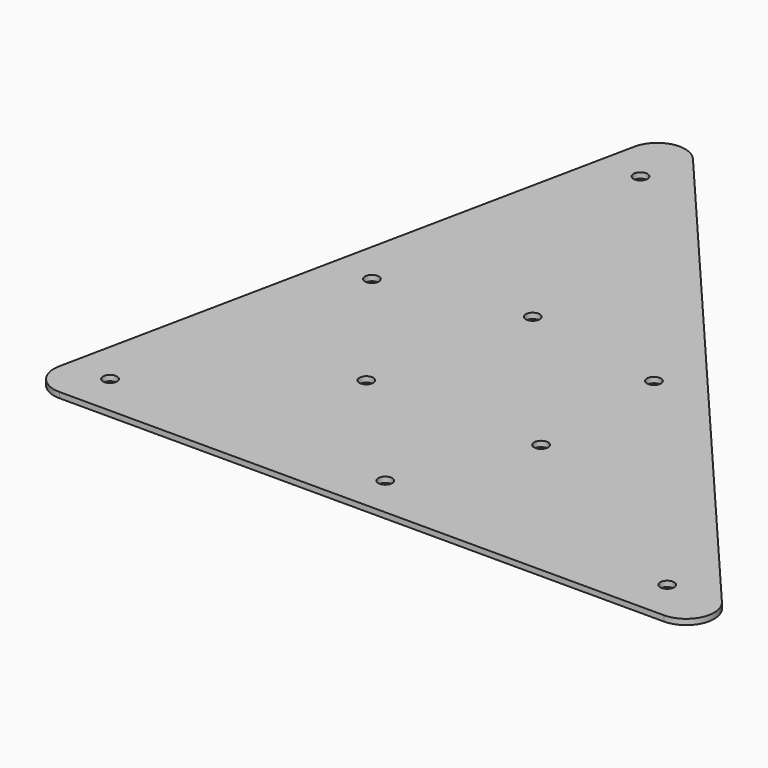
from build123d import *

# Parameters (mm, degrees)
F0_R     = 3.175
F1_DEPTH = 2.54
F2_R     = 12.7


with BuildPart() as f1:
    # F0 (on Top) → F1 (new body)
    with BuildSketch(Plane.XY):
        Polygon((-318.52108, 0), (0, 0), (-255.939342, 300.836124), align=None)
        with Locations((-295.100357, 19.05)):
            Circle(F0_R, mode=Mode.SUBTRACT)
        with Locations((-169.663504, 19.05)):
            Circle(F0_R, mode=Mode.SUBTRACT)
        with Locations((-270.480821, 137.398359)):
            Circle(F0_R, mode=Mode.SUBTRACT)
        with Locations((-223.245375, 75.209031)):
            Circle(F0_R, mode=Mode.SUBTRACT)
        with Locations((-41.218348, 19.05)):
            Circle(F0_R, mode=Mode.SUBTRACT)
        with Locations((-143.615105, 75.209031)):
            Circle(F0_R, mode=Mode.SUBTRACT)
        with Locations((-143.024825, 138.71533)):
            Circle(F0_R, mode=Mode.SUBTRACT)
        with Locations((-207.599941, 150.418062)):
            Circle(F0_R, mode=Mode.SUBTRACT)
        with Locations((-245.218643, 258.835949)):
            Circle(F0_R, mode=Mode.SUBTRACT)
    extrude(amount=F1_DEPTH)

    # F2
    f2_edges = [f1.edges().sort_by_distance(p)[0] for p in [
        (-318.52108, 0, 1.27),
        (0, 0, 1.27),
        (-255.939342, 300.836124, 1.27),
    ]]
    fillet(f2_edges, radius=F2_R)


solid = f1.part
